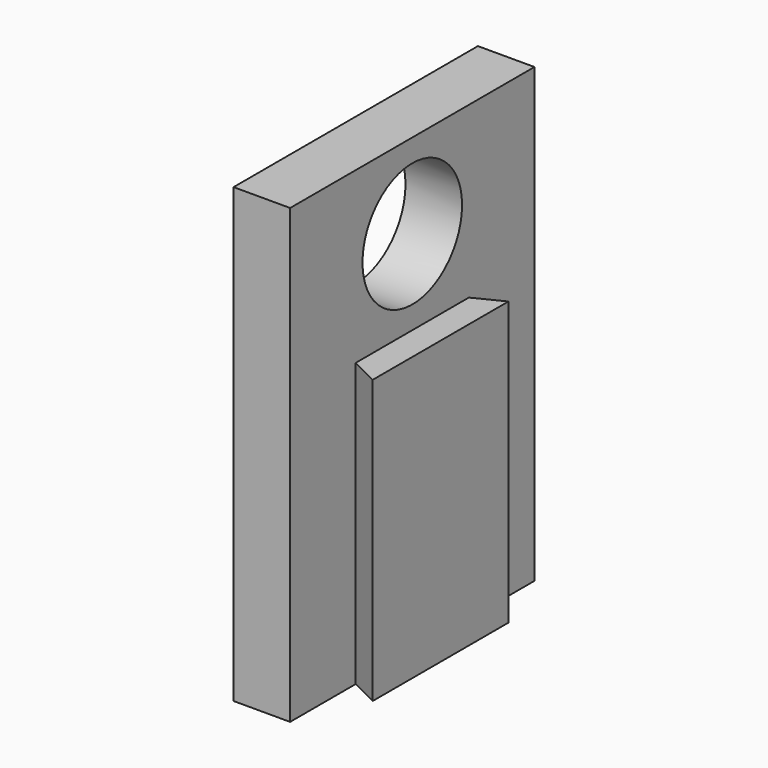
from build123d import *

# Parameters (mm, degrees)
PAD_DEPTH    = 50
SKETCH_W     = 10
SKETCH_H     = 54
PAD001_DEPTH = 80
SKETCH002_R  = 11
POCKET_DEPTH = 25.001


with BuildPart() as part:
    # Sketch001 → Pad (new body)
    with BuildSketch(Plane.XY):
        Polygon((-15, 0), (-15, 14.5), (-10, 12), (-10, 42), (-15, 39.5), (-15, 54), (-25, 54), (-25, 0), align=None)
    extrude(amount=PAD_DEPTH)

    # Sketch → Pad001 (join)
    with BuildSketch(Plane.XY):
        with Locations((-20, 27)):
            Rectangle(SKETCH_W, SKETCH_H)
    extrude(amount=PAD001_DEPTH)

    # Sketch002 → Pocket (cut, through all)
    with BuildSketch(Plane.YZ):
        with Locations((27, 65)):
            Circle(SKETCH002_R)
    extrude(amount=-POCKET_DEPTH, mode=Mode.SUBTRACT)


solid = part.part
